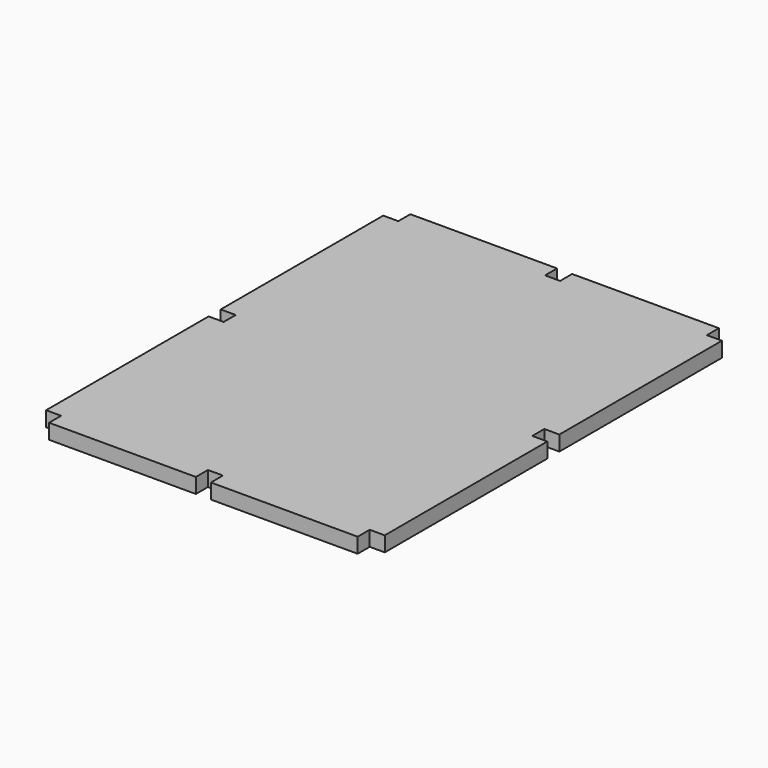
from build123d import *

# Parameters (mm, degrees)
F1_DEPTH = 12.7


with BuildPart() as f1:
    # F0 (on Top) → F1 (new body)
    with BuildSketch(Plane.XY):
        Polygon((-6.35, 0), (-130.175, 0), (-130.175, -12.7), (-142.875, -12.7), (-142.875, -184.15), (-130.175, -184.15), (-130.175, -196.85), (-142.875, -196.85), (-142.875, -368.3), (-130.175, -368.3), (-130.175, -381), (-6.35, -381), (-6.35, -368.3), (6.35, -368.3), (6.35, -381), (130.175, -381), (130.175, -368.3), (142.875, -368.3), (142.875, -196.85), (130.175, -196.85), (130.175, -184.15), (142.875, -184.15), (142.875, -12.7), (130.175, -12.7), (130.175, 0), (6.35, 0), (6.35, -12.7), (-6.35, -12.7), align=None)
    extrude(amount=F1_DEPTH)


solid = f1.part
